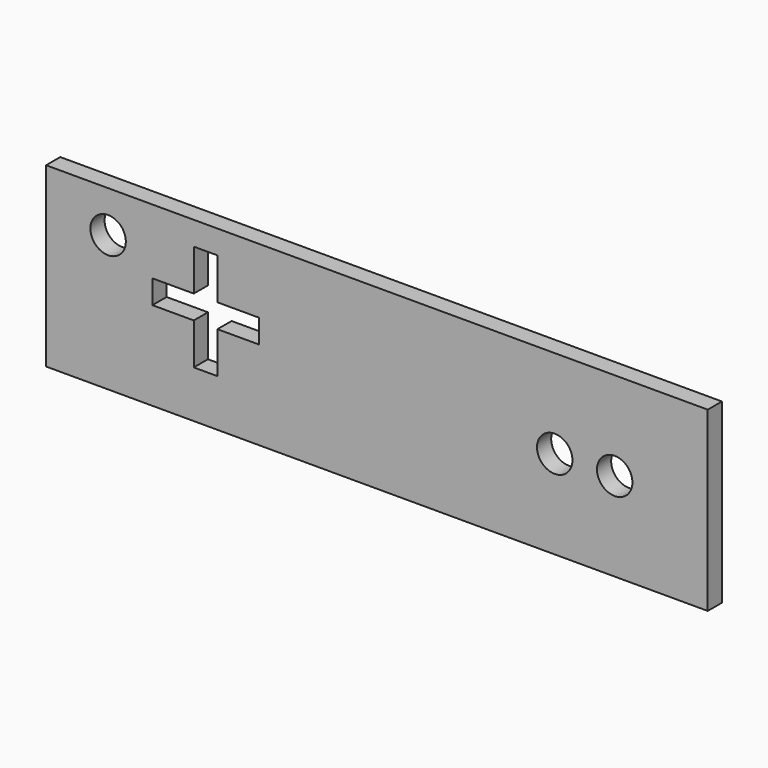
from build123d import *

# Parameters (mm, degrees)
F0_W     = 112
F0_H     = 30
F0_R     = 3
F1_DEPTH = 3
F3_DEPTH = 25
F4_R     = 3
F5_DEPTH = 25


with BuildPart() as f1:
    # F0 (on Front) → F1 (new body)
    with BuildSketch(Plane.XZ):
        Rectangle(F0_W, F0_H)
        with Locations((-45.5, 8)):
            Circle(F0_R, mode=Mode.SUBTRACT)
    extrude(amount=F1_DEPTH)

    # F2 (on face) → F3 (cut)
    with BuildSketch(Plane.XZ.offset(3)):
        Polygon((-38, 4), (-38, 2), (-38, 0), (-31, 0), (-31, -7), (-29, -7), (-27, -7), (-27, 0), (-20, 0), (-20, 2), (-20, 4), (-27, 4), (-27, 11), (-29, 11), (-31, 11), (-31, 4), align=None)
    extrude(amount=-F3_DEPTH, mode=Mode.SUBTRACT)

    # F4 (on face) → F5 (cut)
    with BuildSketch(Plane.XZ.offset(3)):
        with Locations((30.1, 0)):
            Circle(F4_R)
        with BuildLine():
            ThreePointArc((43.25, 0), (40.25, 3), (37.25, 0))
            ThreePointArc((37.25, 0), (40.25, -3), (43.25, 0))
        make_face()
    extrude(amount=-F5_DEPTH, mode=Mode.SUBTRACT)


solid = f1.part
